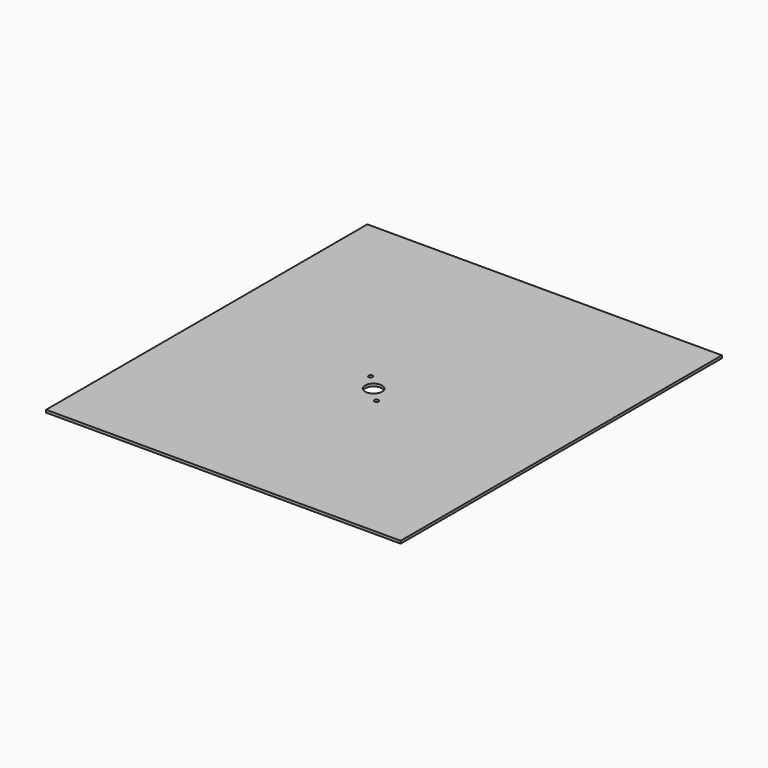
from build123d import *

# Parameters (mm, degrees)
F0_R     = 2.4892
F0_R_2   = 10.31875
F1_DEPTH = 3.175


with BuildPart() as f1:
    # F0 (on Top) → F1 (new body)
    with BuildSketch(Plane.XY):
        Polygon((215.9, 260.35), (-215.9, 260.35), (-215.9, -31.75), (-215.9, -228.6), (215.9, -228.6), align=None)
        with Locations((17.960512, -17.960512)):
            Circle(F0_R, mode=Mode.SUBTRACT)
        Circle(F0_R_2, mode=Mode.SUBTRACT)
        with Locations((-17.960512, 17.960512)):
            Circle(F0_R, mode=Mode.SUBTRACT)
    extrude(amount=F1_DEPTH)


solid = f1.part
